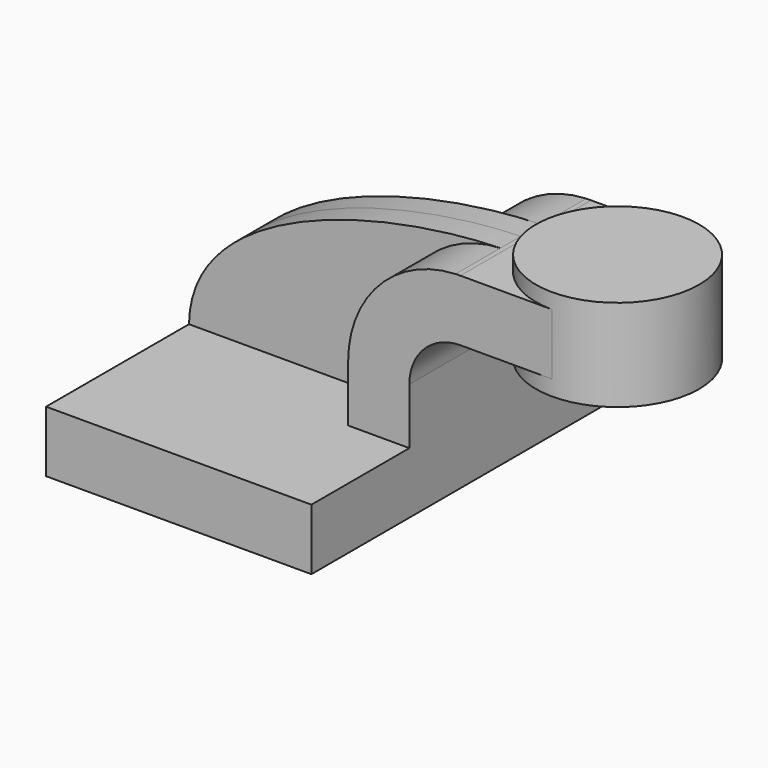
from build123d import *

# Parameters (mm, degrees)
F1_DEPTH = 63.5
F2_DEPTH = 25.4
F0_W     = 25.4
F0_H     = 19.05
F3_DEPTH = 25.4
F4_DEPTH = 7.9375


with BuildPart() as f1:
    # F0 (on Front) → F1 (new body, symmetric)
    with BuildSketch(Plane.XZ):
        Polygon((-41.275, 9.525), (-41.275, -9.525), (41.275, -9.525), (41.275, 9.525), (22.225, 9.525), align=None)
    extrude(amount=F1_DEPTH, both=True)

    # F0 (on Front) → F2 (join, symmetric)
    with BuildSketch(Plane.XZ):
        with BuildLine():
            Line((22.225, 9.525), (41.275, 9.525))
            Line((41.275, 9.525), (41.275, 27.0002))
            ThreePointArc((41.275, 27.0002), (45.9246798487, 38.2255201513), (57.15, 42.8752))
            Line((57.15, 42.8752), (60.325, 42.8752))
            Line((60.325, 42.8752), (60.325, 61.9252))
            Line((60.325, 61.9252), (57.15, 61.9252))
            add(Edge.make_bspline(
                [(55.6487642721, 61.8929201045), (56.1526188138, 61.9062395272), (56.6530888928, 61.9169959284), (57.15, 61.9252)],
                knots=[110.0594590217, 110.0594590217, 110.0594590217, 110.0594590217, 111.5045361635, 111.5045361635, 111.5045361635, 111.5045361635], degree=3))
            ThreePointArc((55.6487642721, 61.8929201045), (31.9291129934, 51.1593076739), (22.225, 27.0002))
            Line((22.225, 27.0002), (22.225, 9.525))
        make_face()
    extrude(amount=F2_DEPTH, both=True)

    # F0 (on Front) → F3 (join, symmetric)
    with BuildSketch(Plane.XZ):
        with Locations((73.025, 52.4002)):
            Rectangle(F0_W, F0_H)
    extrude(amount=F3_DEPTH, both=True)

    # F0 (on Front) → F4 (join, symmetric)
    with BuildSketch(Plane.XZ):
        with BuildLine():
            add(Edge.make_bspline(
                [(-41.275, 9.525), (-40.7319258576, 44.9970073135), (17.2743711817, 60.8784908984), (55.6487642721, 61.8929201045)],
                knots=[0, 0, 0, 0, 110.0594590217, 110.0594590217, 110.0594590217, 110.0594590217], degree=3))
            Line((-41.275, 9.525), (22.225, 9.525))
            Line((22.225, 9.525), (22.225, 27.0002))
            ThreePointArc((22.225, 27.0002), (31.9291129934, 51.1593076739), (55.6487642721, 61.8929201045))
        make_face()
    extrude(amount=F4_DEPTH, both=True)

    # F0 (on Front) → F5 (revolve)
    with BuildSketch(Plane.XZ):
        Polygon((85.725, 66.675), (85.725, 61.9252), (85.725, 42.8752), (85.725, 38.1), (111.125, 38.1), (111.125, 66.675), align=None)
    revolve(axis=Axis((85.725, 0, 52.3875), (0, 0, 1)))


solid = f1.part
